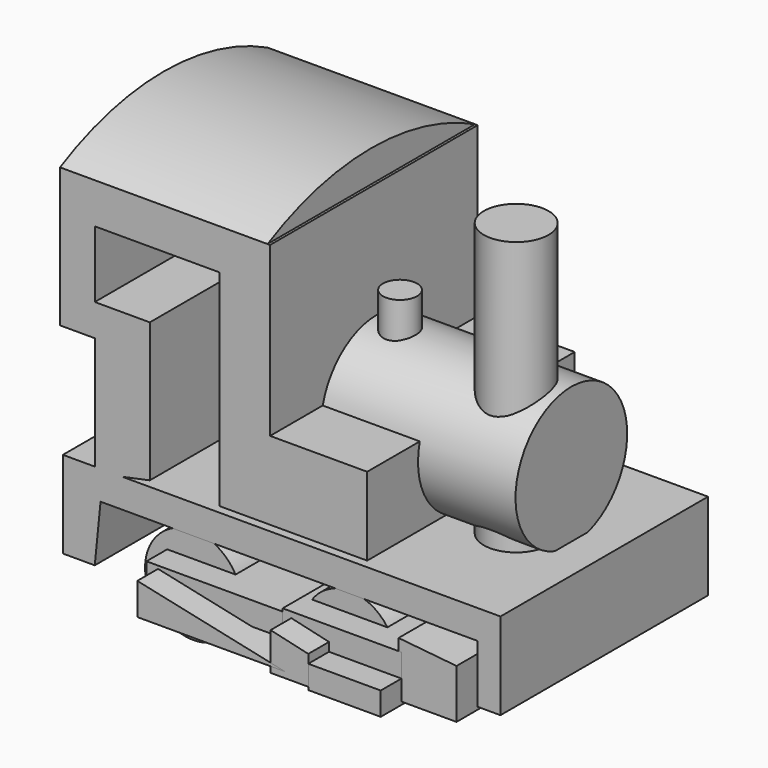
from build123d import *

# Parameters (mm, degrees)
F0_R      = 4.486061
F0_R_2    = 4.722098
F1_DEPTH  = 25.4
F3_DEPTH  = 25.4
F5_DEPTH  = 25.4
F6_R      = 6.832964
F7_DEPTH  = 19.05
F8_R      = 3.172124
F9_DEPTH  = 38.1
F11_DEPTH = 27.94
F12_W     = 17.023406
F12_H     = 2.269788
F13_DEPTH = 27.94
F15_DEPTH = 27.94
F17_DEPTH = 30.48
F18_W     = 7.093086
F18_H     = 2.269787
F19_DEPTH = 30.48
F21_DEPTH = 30.48
F22_R     = 1.676019
F23_DEPTH = 27.94
F25_DEPTH = 20.32


with BuildPart() as f1:
    # F0 (on Front) → F1 (new body)
    with BuildSketch(Plane.XZ):
        with Locations((7.802393, 4.255851)):
            Circle(F0_R)
        with Locations((-7.518671, 4.255851)):
            Circle(F0_R_2)
    extrude(amount=F1_DEPTH)


with BuildPart() as f3:
    # F2 (on Front) → F3 (new body)
    with BuildSketch(Plane.XZ):
        Polygon((-17.165266, 2.837234), (-16.59782, 8.511703), (20.286225, 8.511703), (20.286225, 2.837234), (22.556009, 2.837234), (22.556009, 11.348937), (-20.286223, 11.348937), (-20.286223, 2.837234), align=None)
    extrude(amount=F3_DEPTH)

    # F4 (on Front) → F5 (join)
    with BuildSketch(Plane.XZ):
        Polygon((-17.165266, 22.414148), (-17.165266, 10.781489), (-11.774521, 11.916383), (-11.774521, 25.535107), (-17.165266, 25.535107), (-17.165266, 32.060746), (-4.965159, 32.060746), (-4.965159, 11.916383), (9.504734, 11.916383), (9.504734, 19.576915), (0, 19.576915), (0, 36.032874), (-20.569947, 36.032874), (-20.569947, 22.414148), align=None)
    extrude(amount=F5_DEPTH)

    # F6 (on Right) → F7 (join)
    with BuildSketch(Plane.YZ):
        with Locations((-12.341968, 17.874574)):
            Circle(F6_R)
    extrude(amount=F7_DEPTH)

    # F24 (on face) → F25 (join)
    with BuildSketch(Plane(origin=(-20.569947, 0, 0), x_dir=(0, -1, 0), z_dir=(-1, 0, 0))):
        with BuildLine():
            Line((0, 36.032874), (25.4, 36.032874))
            ThreePointArc((25.4, 36.032874), (12.7, 39.141446), (0, 36.032874))
        make_face()
    extrude(amount=-F25_DEPTH)


with BuildPart() as f9:
    # F8 (on Top) → F9 (new body)
    with BuildSketch(Plane.XY):
        with Locations((14.895479, -13.902447)):
            Circle(F8_R)
    extrude(amount=F9_DEPTH)


with BuildPart() as f11:
    # F10 (on Front) → F11 (new body)
    with BuildSketch(Plane.XZ):
        Polygon((20.286225, 2.553511), (20.286225, 7.376809), (14.611756, 7.944255), (14.611756, 2.553511), align=None)
    extrude(amount=F11_DEPTH)


with BuildPart() as f13:
    # F12 (on Front) → F13 (new body)
    with BuildSketch(Plane.XZ):
        with Locations((-1.560478, 5.390745)):
            Rectangle(F12_W, F12_H)
    extrude(amount=F13_DEPTH)


with BuildPart() as f15:
    # F14 (on Front) → F15 (new body)
    with BuildSketch(Plane.XZ):
        Polygon((14.895479, 4.539574), (14.895479, 6.809362), (3.262819, 6.809362), (3.262819, 4.539574), (12.058245, 4.539574), align=None)
    extrude(amount=F15_DEPTH)


with BuildPart() as f17:
    # F16 (on Front) → F17 (new body)
    with BuildSketch(Plane.XZ):
        Polygon((7.802393, 5.390745), (4.11399, 6.241915), (4.11399, 2.553511), (7.802393, 2.553511), align=None)
    extrude(amount=F17_DEPTH)


with BuildPart() as f19:
    # F18 (on Front) → F19 (new body)
    with BuildSketch(Plane.XZ):
        with Locations((11.348936, 3.40468)):
            Rectangle(F18_W, F18_H)
    extrude(amount=F19_DEPTH)


with BuildPart() as f21:
    # F20 (on Front) → F21 (new body)
    with BuildSketch(Plane.XZ):
        Polygon((5.532607, 3.120958), (-8.937288, 6.241915), (-8.937288, 3.120958), align=None)
    extrude(amount=F21_DEPTH)


with BuildPart() as f23:
    # F22 (on Top) → F23 (new body)
    with BuildSketch(Plane.XY):
        with Locations((2.687858, -12.856173)):
            Circle(F22_R)
    extrude(amount=F23_DEPTH)


solid = Compound([f1.part, f3.part, f9.part, f11.part, f13.part, f15.part, f17.part, f19.part, f21.part, f23.part])
